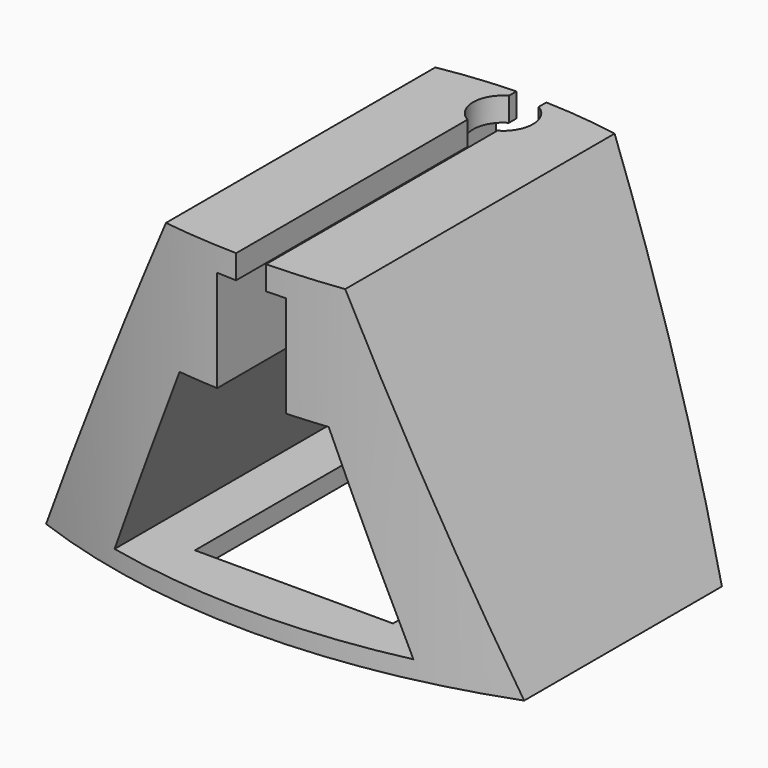
from build123d import *

# Parameters (mm, degrees)
PAD_DEPTH       = 125
POCKET_DEPTH    = 125.001
SKETCH002_W     = 11.5
SKETCH002_H     = 24.578663
POCKET001_DEPTH = 125.001
SKETCH003_W     = 5
SKETCH003_H     = 32.052196
POCKET002_DEPTH = 107
SKETCH004_R     = 2
POCKET003_DEPTH = 5
SKETCH005_R     = 5
POCKET004_DEPTH = 52.001
SKETCH006_W     = 33.133884
SKETCH006_H     = 39.241348
POCKET005_DEPTH = 5
POCKET006_DEPTH = 55.001


with BuildPart() as part:
    # Sketch001 → Pad (new body)
    with BuildSketch(Plane.XZ.offset(62.5)):
        Polygon((-40, 0), (-15, 55), (15, 55), (40, 0), align=None)
    extrude(amount=PAD_DEPTH)

    # Sketch (on Face6 of Pad) → Pocket (cut, through all)
    with BuildSketch(Plane.XZ.offset(187.5)):
        Polygon((-12.478369, 34), (12.478369, 34), (25, 3), (-25, 3), align=None)
    extrude(amount=-POCKET_DEPTH, mode=Mode.SUBTRACT)

    # Sketch002 (on Face5 of Pocket) → Pocket001 (cut, through all)
    with BuildSketch(Plane.XZ.offset(187.5)):
        with Locations((0, 38.710668)):
            Rectangle(SKETCH002_W, SKETCH002_H)
    extrude(amount=-POCKET001_DEPTH, mode=Mode.SUBTRACT)

    # Sketch003 (on Face5 of Pocket001) → Pocket002 (cut)
    with BuildSketch(Plane.XZ.offset(187.5)):
        with Locations((0.018413, 60.238085)):
            Rectangle(SKETCH003_W, SKETCH003_H)
    extrude(amount=-POCKET002_DEPTH, mode=Mode.SUBTRACT)

    # Sketch004 (on Face2 of Pocket002) → Pocket003 (cut)
    with BuildSketch(Plane(origin=(0, -62.5, 0), x_dir=(1, 0, 0), z_dir=(0, 0, -1))):
        with Locations((0, 62.5)):
            Circle(SKETCH004_R)
    extrude(amount=-POCKET003_DEPTH, mode=Mode.SUBTRACT)

    # Sketch005 (on Face11 of Pocket003) → Pocket004 (cut, through all)
    with BuildSketch(Plane(origin=(0, -62.5, 3), x_dir=(-1, 0, 0), z_dir=(0, 0, 1))):
        with Locations((0, 62.5)):
            Circle(SKETCH005_R)
    extrude(amount=POCKET004_DEPTH, mode=Mode.SUBTRACT)

    # Sketch006 (on Face2 of Pocket004) → Pocket005 (cut)
    with BuildSketch(Plane(origin=(0, -62.5, 0), x_dir=(1, 0, 0), z_dir=(0, 0, -1))):
        with Locations((0.007028, 86.620669)):
            Rectangle(SKETCH006_W, SKETCH006_H)
        with Locations((-0.007028, 38.379331)):
            Rectangle(SKETCH006_W, SKETCH006_H)
    extrude(amount=-POCKET005_DEPTH, mode=Mode.SUBTRACT)

    # Sketch007 (on Face2 of Pocket005) → Pocket006 (cut, through all)
    with BuildSketch(Plane(origin=(0, -62.5, 0), x_dir=(1, 0, 0), z_dir=(0, 0, -1))):
        with BuildLine():
            ThreePointArc((57.666743, 99.777191), (0.524103, 115.241774), (-56.756832, 100.297573))
            Line((-66.493973, 135.547501), (-56.756832, 100.297573))
            Line((80.722458, 130.041382), (-66.493973, 135.547501))
            Line((65.916746, 95.009059), (80.722458, 130.041382))
            Line((57.666743, 99.777191), (65.916746, 95.009059))
        make_face()
        with BuildLine():
            ThreePointArc((-48.384384, 71.931989), (1.820118, 56.580716), (51.310891, 74.096909))
            Line((51.310891, 74.096909), (53.523094, 75.808954))
            Line((53.523094, 75.808954), (72.60817, -29.346481))
            Line((72.60817, -29.346481), (-27.661308, -61.224059))
            Line((-27.661308, -61.224059), (-105.616463, 40.204582))
            Line((-105.616463, 40.204582), (-48.384384, 71.931989))
        make_face()
    extrude(amount=-POCKET006_DEPTH, mode=Mode.SUBTRACT)


solid = part.part
